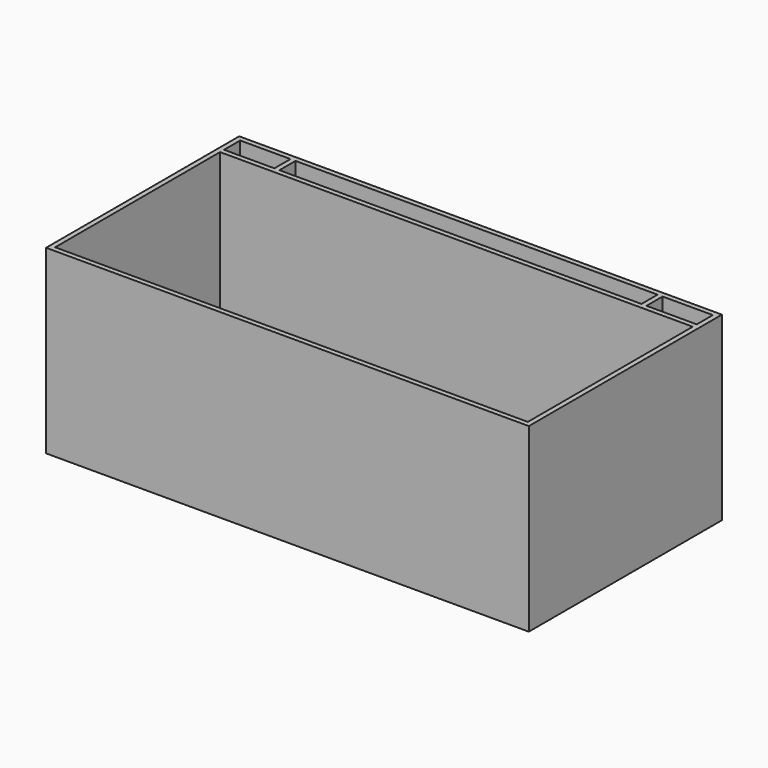
from build123d import *

# Parameters (mm, degrees)
F0_W     = 1219.2
F0_H     = 609.6
F1_DEPTH = 457.2
F2_T     = -12.7
F4_DEPTH = 444.5


with BuildPart() as f1:
    # F0 (on Top) → F1 (new body)
    with BuildSketch(Plane.XY):
        with Locations((4.2110532522, -30.9912272245)):
            Rectangle(F0_W, F0_H)
    extrude(amount=F1_DEPTH)

    # F2
    f2_openings = [f1.faces().sort_by_distance(p)[0] for p in [
        (4.211053, -30.991227, 457.2),
    ]]
    offset(amount=F2_T, openings=f2_openings)

    # F3 (on face) → F4 (join, through all)
    with BuildSketch(Plane.XY.offset(12.7)):
        Polygon((-465.6889467478, 210.3087727755), (-592.6889467478, 210.3087727755), (-592.6889467478, 197.6087727755), (601.1110532522, 197.6087727755), (601.1110532522, 210.3087727755), (474.1110532522, 210.3087727755), (474.1110532522, 261.1087727755), (461.4110532522, 261.1087727755), (461.4110532522, 210.3087727755), (-452.9889467478, 210.3087727755), (-452.9889467478, 261.1087727755), (-465.6889467478, 261.1087727755), align=None)
    extrude(amount=F4_DEPTH)


solid = f1.part
